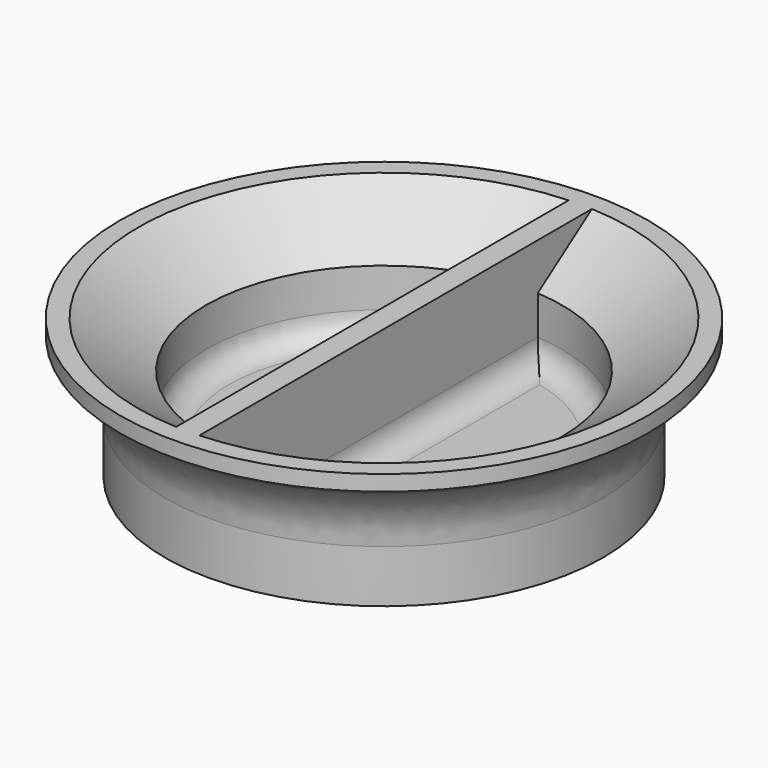
from build123d import *

# Parameters (mm, degrees)
F3_DEPTH = 0.75
F4_R     = 1.5
F5_R     = 5


with BuildPart() as f1:
    # F0 (on Front) → F1 (revolve)
    with BuildSketch(Plane.XZ):
        Polygon((0, 2), (0, 0), (14.1, 0), (14.1, 6), (17, 8), (17, 9), (15.8079127569, 9), (11.4579127569, 6), (11.4579127569, 2), align=None)
    revolve(axis=Axis((0, 0, 4.5), (0, 0, 1)))

    # F2 (on Right) → F3 (join, symmetric)
    with BuildSketch(Plane.YZ):
        Polygon((16, 9), (-16, 9), (-16, 8), (-13.1, 6), (-13.1, 0), (13.1, 0), (13.1, 6), (16, 8), align=None)
    extrude(amount=F3_DEPTH, both=True)

    # F4
    f4_edges = [f1.edges().sort_by_distance(p)[0] for p in [
        (-11.457913, 0, 2),
        (0.75, 0, 2),
        (11.457913, 0, 2),
        (-0.75, 0, 2),
    ]]
    fillet(f4_edges, radius=F4_R)

    # F5
    f5_edges = [f1.edges().sort_by_distance(p)[0] for p in [
        (-14.1, 0, 6),
    ]]
    fillet(f5_edges, radius=F5_R)


solid = f1.part
